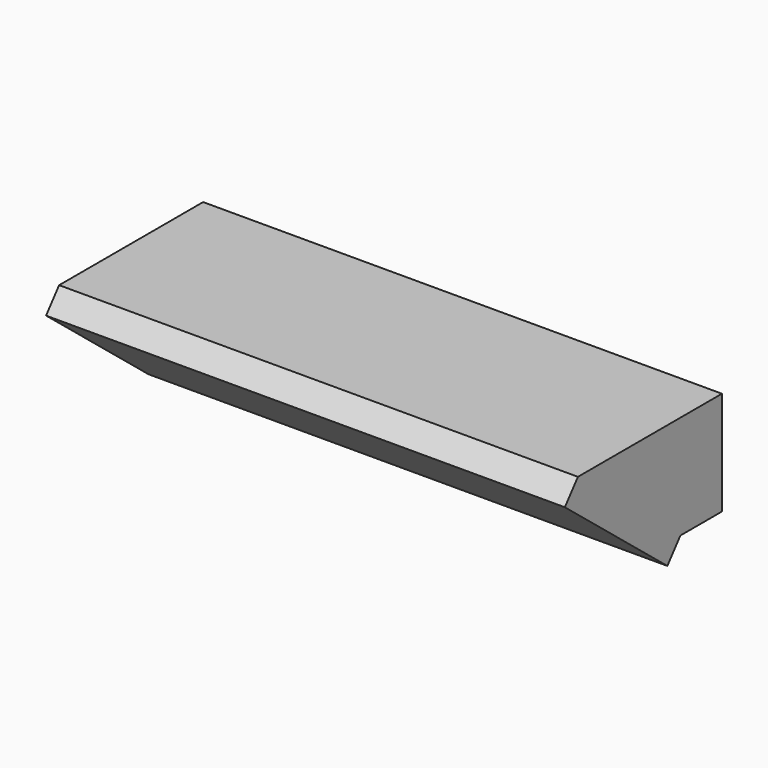
from build123d import *

# Parameters (mm, degrees)
F1_DEPTH = 10
F3_DEPTH = 100


with BuildPart() as f1:
    # F0 (on Front) → F1 (new body)
    with BuildSketch(Plane.XZ):
        with BuildLine():
            Line((0, 20), (0, 10))
            Line((0, 10), (17.85, 10))
            ThreePointArc((17.85, 10), (20, 12.15), (22.15, 10))
            Line((22.15, 10), (50, 10))
            Line((50, 10), (50, 20))
            Line((50, 20), (0, 20))
        make_face()
        with BuildLine():
            Line((50, 20), (50, 10))
            Line((50, 10), (77.85, 10))
            ThreePointArc((77.85, 10), (80, 12.15), (82.15, 10))
            Line((82.15, 10), (100, 10))
            Line((100, 10), (100, 20))
            Line((100, 20), (50, 20))
        make_face()
        with BuildLine():
            Line((50, 10), (50, 0))
            Line((50, 0), (100, 0))
            Line((100, 0), (100, 10))
            Line((100, 10), (82.15, 10))
            ThreePointArc((82.15, 10), (80, 7.85), (77.85, 10))
            Line((77.85, 10), (50, 10))
        make_face()
        with BuildLine():
            Line((0, 10), (0, 0))
            Line((0, 0), (50, 0))
            Line((50, 0), (50, 10))
            Line((50, 10), (22.15, 10))
            ThreePointArc((22.15, 10), (20, 7.85), (17.85, 10))
            Line((17.85, 10), (0, 10))
        make_face()
    extrude(amount=F1_DEPTH)

    # F2 (on face) → F3 (join, through all)
    with BuildSketch(Plane.YZ.offset(100)):
        Polygon((-34.6979431307, 20), (-10, 0), (-10, 20), align=None)
        Polygon((-13.1466019552, -3.8857298073), (-10, 0), (-34.6979431307, 20), (-37.844545086, 16.1142701927), align=None)
    extrude(amount=-F3_DEPTH)


solid = f1.part
